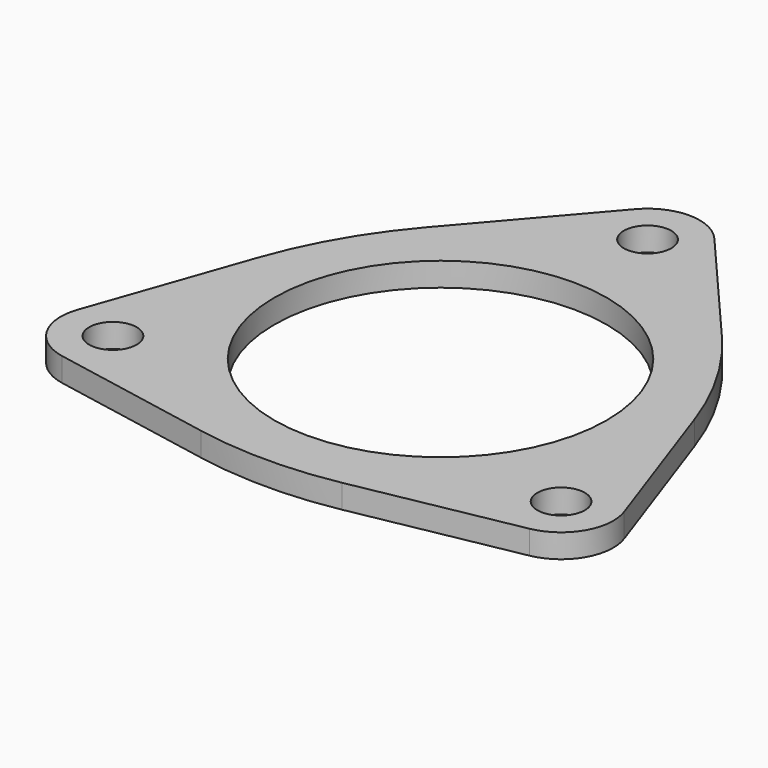
from build123d import *

# Parameters (mm, degrees)
SKETCH_R   = 35
SKETCH_R_2 = 5
PAD_DEPTH  = 5


with BuildPart() as part:
    # Sketch → Pad (new body)
    with BuildSketch(Plane.XY):
        with BuildLine():
            ThreePointArc((8.339953, 61.67253), (0, 65.5), (-8.339953, 61.67253))
            Line((-8.339953, 61.67253), (-31.16164, 35.136317))
            ThreePointArc((-31.16164, 35.136317), (-39.78947, 22.972461), (-46.009763, 9.418613))
            Line((-46.009763, 9.418613), (-57.579954, -23.613654))
            ThreePointArc((-57.579954, -23.613654), (-56.724664, -32.75), (-49.240001, -38.058876))
            Line((-14.848123, -44.55493), (-49.240001, -38.058876))
            ThreePointArc((-14.848123, -44.55493), (0, -45.944923), (14.848123, -44.55493))
            Line((14.848123, -44.55493), (49.240001, -38.058876))
            ThreePointArc((49.240001, -38.058876), (56.724664, -32.75), (57.579954, -23.613654))
            Line((57.579954, -23.613654), (46.009763, 9.418613))
            ThreePointArc((46.009763, 9.418613), (39.78947, 22.972461), (31.16164, 35.136317))
            Line((8.339953, 61.67253), (31.16164, 35.136317))
        make_face()
        Circle(SKETCH_R, mode=Mode.SUBTRACT)
        with Locations((-47.198385, -27.25)):
            Circle(SKETCH_R_2, mode=Mode.SUBTRACT)
        with Locations((47.198385, -27.25)):
            Circle(SKETCH_R_2, mode=Mode.SUBTRACT)
        with Locations((0, 54.5)):
            Circle(SKETCH_R_2, mode=Mode.SUBTRACT)
    extrude(amount=PAD_DEPTH)


solid = part.part
